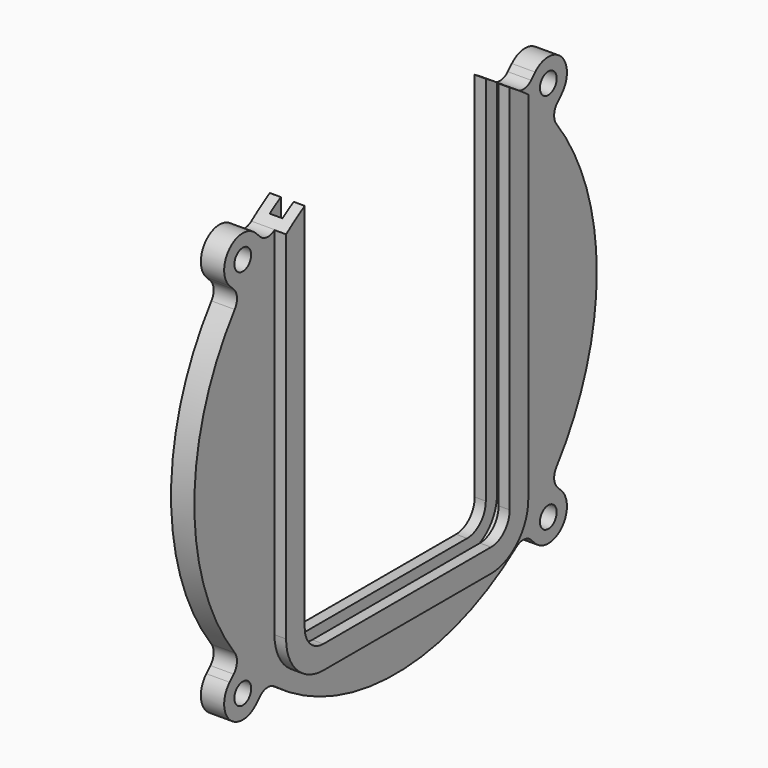
from build123d import *

# Parameters (mm, degrees)
F0_R     = 2.25
F1_DEPTH = 5
F2_DEPTH = 7.5
F4_W     = 2.75
F4_H     = 5


with BuildPart() as f1:
    # F0 (on Right) → F1 (new body)
    with BuildSketch(Plane.YZ):
        with BuildLine():
            Line((-32.5, -33.3578620553), (-32.5, 43.1248188402))
            ThreePointArc((-32.5, 43.1248188402), (-38.2073481766, 38.1601696185), (-43.1649418054, 32.4466916485))
            ThreePointArc((-43.1649418054, 32.4466916485), (-54, 0), (-43.1649418054, -32.4466916485))
            ThreePointArc((-43.1649418054, -32.4466916485), (-38.1837661841, -38.1837661841), (-32.4466916485, -43.1649418054))
            ThreePointArc((-32.4466916485, -43.1649418054), (0, -54), (32.4466916485, -43.1649418054))
            ThreePointArc((32.4466916485, -43.1649418054), (38.1837661841, -38.1837661841), (43.1649418054, -32.4466916485))
            ThreePointArc((43.1649418054, -32.4466916485), (51.2196586161, -17.1039928453), (54, 0))
            ThreePointArc((54, 0), (51.2196586161, 17.1039928453), (43.1649418054, 32.4466916485))
            ThreePointArc((43.1649418054, 32.4466916485), (38.2073481766, 38.1601696185), (32.5, 43.1248188402))
            Line((32.5, 43.1248188402), (32.5, -33.3578620553))
            ThreePointArc((32.5, -33.3578620553), (29.5710678119, -40.4289298672), (22.5, -43.3578620553))
            Line((22.5, -43.3578620553), (-22.5, -43.3578620553))
            ThreePointArc((-22.5, -43.3578620553), (-29.5710678119, -40.4289298672), (-32.5, -33.3578620553))
        make_face()
        with BuildLine():
            ThreePointArc((-32.5, 43.1248188402), (-32.4733520211, 43.1448885561), (-32.4466916485, 43.1649418054))
            ThreePointArc((-32.4466916485, 43.1649418054), (-34.4603348429, 42.5704269643), (-36.3706059725, 43.4416737844))
            Line((-36.3706059725, 43.4416737844), (-37.4644660941, 44.5355339059))
            ThreePointArc((-37.4644660941, 44.5355339059), (-44.5355339059, 44.5355339059), (-44.5355339059, 37.4644660941))
            Line((-44.5355339059, 37.4644660941), (-43.4416737844, 36.3706059725))
            ThreePointArc((-43.4416737844, 36.3706059725), (-42.5704269643, 34.4603348429), (-43.1649418054, 32.4466916485))
            ThreePointArc((-43.1649418054, 32.4466916485), (-38.2073481766, 38.1601696185), (-32.5, 43.1248188402))
        make_face()
        with Locations((-41, 41)):
            Circle(F0_R, mode=Mode.SUBTRACT)
        with BuildLine():
            ThreePointArc((32.4466916485, 43.1649418054), (32.4733520211, 43.1448885561), (32.5, 43.1248188402))
            ThreePointArc((32.5, 43.1248188402), (38.2073481766, 38.1601696185), (43.1649418054, 32.4466916485))
            ThreePointArc((43.1649418054, 32.4466916485), (42.5704269643, 34.4603348429), (43.4416737844, 36.3706059725))
            Line((43.4416737844, 36.3706059725), (44.5355339059, 37.4644660941))
            ThreePointArc((44.5355339059, 37.4644660941), (44.5355339059, 44.5355339059), (37.4644660941, 44.5355339059))
            Line((37.4644660941, 44.5355339059), (36.3706059725, 43.4416737844))
            ThreePointArc((36.3706059725, 43.4416737844), (34.4603348429, 42.5704269643), (32.4466916485, 43.1649418054))
        make_face()
        with Locations((41, 41)):
            Circle(F0_R, mode=Mode.SUBTRACT)
        with BuildLine():
            ThreePointArc((43.1649418054, -32.4466916485), (38.1837661841, -38.1837661841), (32.4466916485, -43.1649418054))
            ThreePointArc((32.4466916485, -43.1649418054), (34.4603348429, -42.5704269643), (36.3706059725, -43.4416737844))
            Line((36.3706059725, -43.4416737844), (37.4644660941, -44.5355339059))
            ThreePointArc((37.4644660941, -44.5355339059), (44.5355339059, -44.5355339059), (44.5355339059, -37.4644660941))
            Line((44.5355339059, -37.4644660941), (43.4416737844, -36.3706059725))
            ThreePointArc((43.4416737844, -36.3706059725), (42.5704269643, -34.4603348429), (43.1649418054, -32.4466916485))
        make_face()
        with Locations((41, -41)):
            Circle(F0_R, mode=Mode.SUBTRACT)
        with BuildLine():
            ThreePointArc((-32.4466916485, -43.1649418054), (-38.1837661841, -38.1837661841), (-43.1649418054, -32.4466916485))
            ThreePointArc((-43.1649418054, -32.4466916485), (-42.5704269643, -34.4603348429), (-43.4416737844, -36.3706059725))
            Line((-43.4416737844, -36.3706059725), (-44.5355339059, -37.4644660941))
            ThreePointArc((-44.5355339059, -37.4644660941), (-44.5355339059, -44.5355339059), (-37.4644660941, -44.5355339059))
            Line((-37.4644660941, -44.5355339059), (-36.3706059725, -43.4416737844))
            ThreePointArc((-36.3706059725, -43.4416737844), (-34.4603348429, -42.5704269643), (-32.4466916485, -43.1649418054))
        make_face()
        with Locations((-41, -41)):
            Circle(F0_R, mode=Mode.SUBTRACT)
    extrude(amount=F1_DEPTH)

    # F0 (on Right) → F2 (join)
    with BuildSketch(Plane.YZ):
        with BuildLine():
            ThreePointArc((-27.5, 46.4731105049), (-30.0189515962, 44.8872202867), (-32.4466916485, 43.1649418054))
            ThreePointArc((-32.4466916485, 43.1649418054), (-32.4733520211, 43.1448885561), (-32.5, 43.1248188402))
            Line((-32.5, 43.1248188402), (-32.5, -33.3578620553))
            ThreePointArc((-32.5, -33.3578620553), (-29.5710678119, -40.4289298672), (-22.5, -43.3578620553))
            Line((-22.5, -43.3578620553), (22.5, -43.3578620553))
            ThreePointArc((22.5, -43.3578620553), (29.5710678119, -40.4289298672), (32.5, -33.3578620553))
            Line((32.5, -33.3578620553), (32.5, 43.1248188402))
            ThreePointArc((32.5, 43.1248188402), (32.4733520211, 43.1448885561), (32.4466916485, 43.1649418054))
            ThreePointArc((32.4466916485, 43.1649418054), (30.0189515962, 44.8872202867), (27.5, 46.4731105049))
            Line((27.5, 46.4731105049), (27.5, -33.3578620553))
            ThreePointArc((27.5, -33.3578620553), (26.0355339059, -36.8933959612), (22.5, -38.3578620553))
            Line((22.5, -38.3578620553), (-22.5, -38.3578620553))
            ThreePointArc((-22.5, -38.3578620553), (-26.0355339059, -36.8933959612), (-27.5, -33.3578620553))
            Line((-27.5, -33.3578620553), (-27.5, 46.4731105049))
        make_face()
    extrude(amount=F2_DEPTH)

    # F5: sweep along a path in F0
    with BuildLine(Plane.YZ) as f5_path:
        Line((-27.5, 46.4731105049), (-27.5, -33.3578620553))
        ThreePointArc((-27.5, -33.3578620553), (-26.0355339059, -36.8933959612), (-22.5, -38.3578620553))
        Line((-22.5, -38.3578620553), (22.5, -38.3578620553))
        ThreePointArc((22.5, -38.3578620553), (26.0355339059, -36.8933959612), (27.5, -33.3578620553))
        Line((27.5, -33.3578620553), (27.5, 46.4731105049))
    # F4 (on plane+point) → F5 (sweep, cut)
    with BuildSketch(Plane.XY.offset(46.4731105049)):
        with Locations((3.75, -28)):
            Rectangle(F4_W, F4_H)
    sweep(path=f5_path.line, mode=Mode.SUBTRACT)


solid = f1.part
